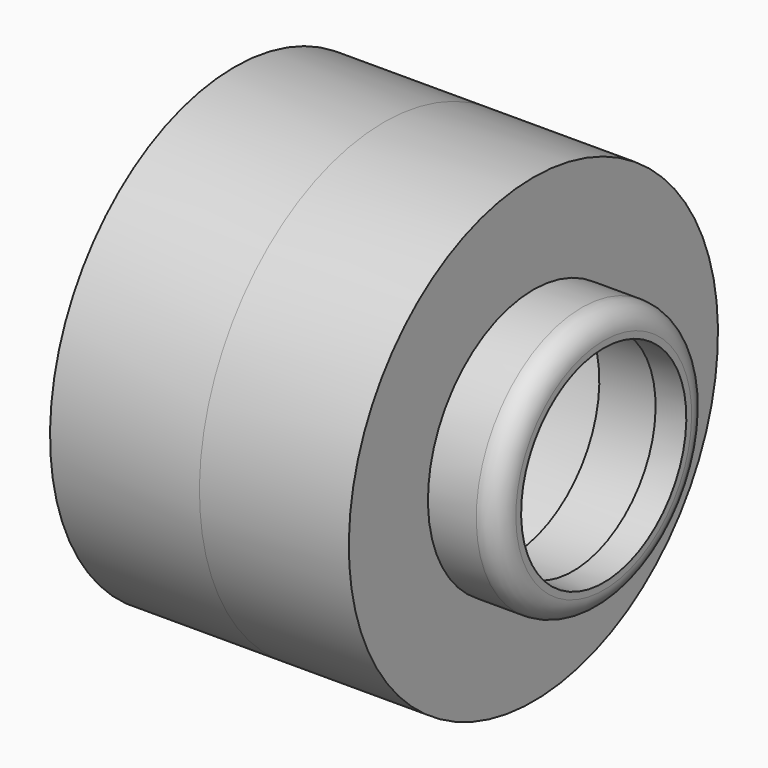
from build123d import *

# Parameters (mm, degrees)
F2_R = 5


with BuildPart() as f1:
    # F0 (on Front) → F1 (revolve)
    with BuildSketch(Plane.XZ):
        Polygon((0, 52.5), (0, 47.5), (29, 47.5), (29, 25), (43, 25), (43, 23.5), (50, 23.5), (50, 30), (34, 30), (34, 52.5), align=None)
    revolve(axis=Axis((0.55163, 0, 0), (1, 0, 0)))

    # F2
    f2_edges = [f1.edges().sort_by_distance(p)[0] for p in [
        (50, 0, -30),
    ]]
    fillet(f2_edges, radius=F2_R)


with BuildPart() as f3_1:
    # F3: instance of F1
    add(f1.part.mirror(Plane.YZ))


solid = Compound([f1.part, f3_1.part])
